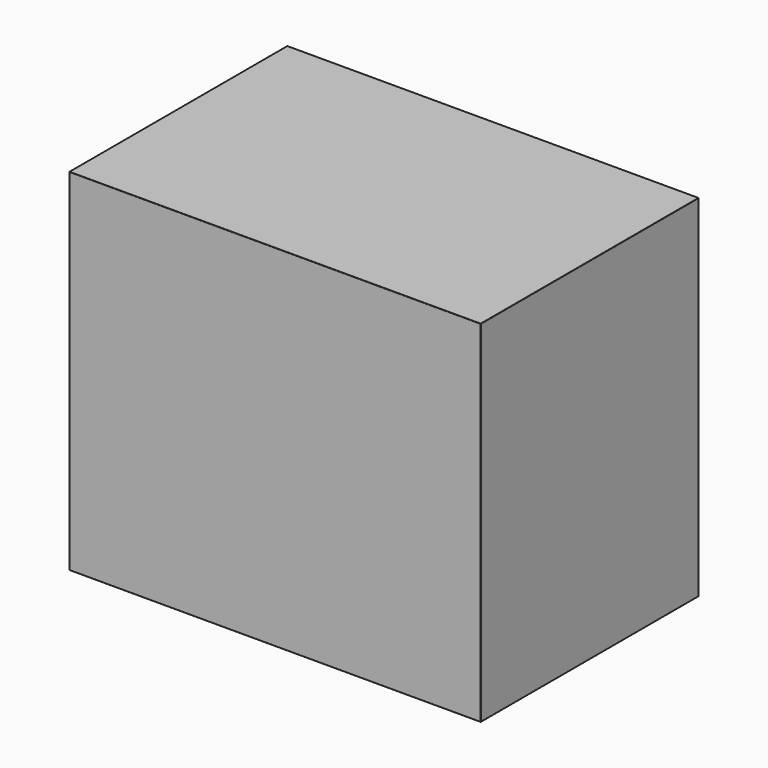
from build123d import *

# Parameters (mm, degrees)
SKETCH_W  = 1185
SKETCH_H  = 785
PAD_DEPTH = 1010
FILLET_R  = 1


with BuildPart() as part:
    # Sketch → Pad (new body)
    with BuildSketch(Plane.XY):
        with Locations((592.5, -392.5)):
            Rectangle(SKETCH_W, SKETCH_H)
    extrude(amount=PAD_DEPTH)

    # Fillet
    fillet_edges = [part.edges().sort_by_distance(p)[0] for p in [
        (0, 0, 505),
        (1185, 0, 505),
        (592.5, 0, 0),
        (592.5, 0, 1010),
        (1185, -785, 505),
        (1185, -392.5, 0),
        (1185, -392.5, 1010),
        (0, -785, 505),
        (592.5, -785, 0),
        (592.5, -785, 1010),
        (0, -392.5, 0),
        (0, -392.5, 1010),
    ]]
    fillet(fillet_edges, radius=FILLET_R)


solid = part.part
